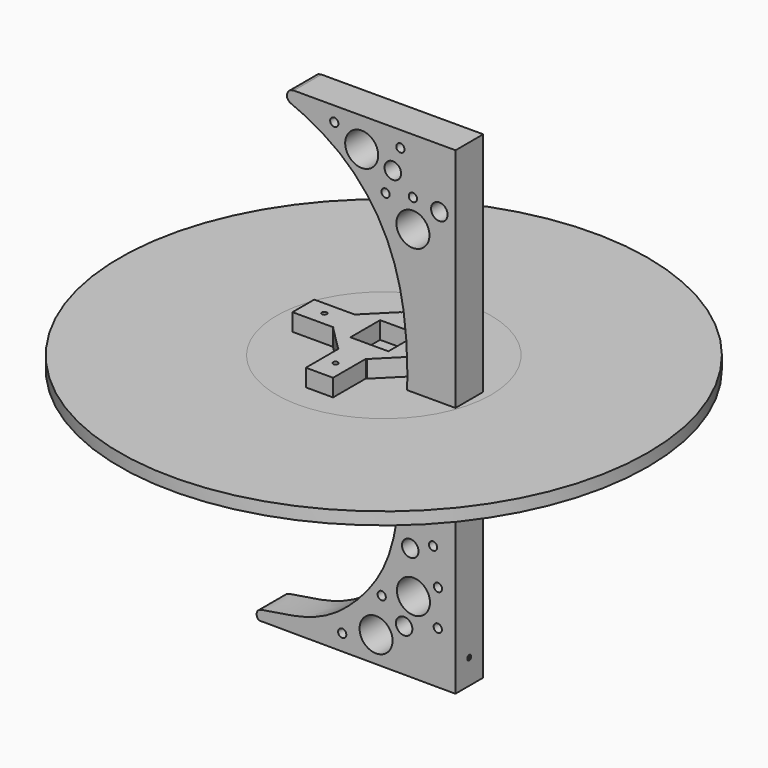
from build123d import *

# Parameters (mm, degrees)
F0_R     = 5.0006825341
F0_R_2   = 20.0027301364
F0_R_3   = 10.0013650682
F1_DEPTH = 42
F2_R     = 3
F2_W     = 46
F2_H     = 45
F3_DEPTH = 36
F4_R     = 130
F5_DEPTH = 15
F4_R_2   = 320
F6_DEPTH = 15
F7_R     = 3
F8_DEPTH = 2


with BuildPart() as f1:
    # F0 (on Front) → F1 (new body)
    with BuildSketch(Plane.XZ):
        with BuildLine():
            Line((120.3347502506, -289.9999587254), (120.5145007844, 290.000013421))
            Line((120.5145007844, 290.000013421), (-75.4854968761, 289.9697300736))
            add(Edge.make_bspline(
                [(-75.4854968761, 289.9697300736), (-77.4791444691, 289.6285774287), (-81.9431155451, 289.0648604222), (-85.097414924, 280.8178308538), (-80.5621815737, 275.249712008), (-73.0932655501, 273.4666354967), (-12.3448356318, 244.070394152), (45.5498113474, 169.4047663364), (64.3817232378, 70.2047966384), (61.0460791266, -22.6136318196), (52.5637214973, -119.7870268055), (36.1428084535, -194.0093221354), (-23.7241306275, -257.3487413797), (-75.9802644725, -271.8566558705), (-113.6560810378, -276.1760671207), (-117.8416120061, -277.8694125254), (-120.7833145434, -280.589599916), (-120.5024355824, -286.8724508682), (-118.5646862194, -288.3918386569), (-117.3594213633, -289.121622801)],
                knots=[0, 0, 0, 0, 0.0254903417, 0.0536597759, 0.0787693812, 0.1053591828, 0.1864897102, 0.2884201015, 0.3911718385, 0.4916756909, 0.5934521844, 0.6836318709, 0.7772549526, 0.85525249, 0.9159960843, 0.9361820461, 0.9554877968, 0.9800159909, 1, 1, 1, 1], degree=3))
            Line((-117.3594213633, -289.121622801), (120.3347502506, -289.9999587254))
        make_face()
        with Locations((-16.8456668925, -269.9498559673)):
            Circle(F0_R, mode=Mode.SUBTRACT)
        with Locations((24.2144403272, -258.2183967616)):
            Circle(F0_R_2, mode=Mode.SUBTRACT)
        with Locations((58.2143409121, -238.0047378359)):
            Circle(F0_R_3, mode=Mode.SUBTRACT)
        with Locations((31.0210563499, -214.3308896352)):
            Circle(F0_R, mode=Mode.SUBTRACT)
        with Locations((98.9876789912, -226.8776261166)):
            Circle(F0_R, mode=Mode.SUBTRACT)
        with Locations((69.523941539, -202.6966006922)):
            Circle(F0_R_2, mode=Mode.SUBTRACT)
        with Locations((65.6584849498, -152.5594255599)):
            Circle(F0_R_3, mode=Mode.SUBTRACT)
        with Locations((99.2199376917, -183.4333074802)):
            Circle(F0_R, mode=Mode.SUBTRACT)
        with Locations((93.2949590021, -141.1028858775)):
            Circle(F0_R, mode=Mode.SUBTRACT)
        with Locations((-26.4630925576, 272.17864117)):
            Circle(F0_R, mode=Mode.SUBTRACT)
        with Locations((35.6757196564, 216.7326844517)):
            Circle(F0_R, mode=Mode.SUBTRACT)
        with Locations((6.7689312212, 254.1003436959)):
            Circle(F0_R_2, mode=Mode.SUBTRACT)
        with Locations((44.5205288684, 243.627350256)):
            Circle(F0_R_3, mode=Mode.SUBTRACT)
        with Locations((53.6781767792, 270.7400558201)):
            Circle(F0_R, mode=Mode.SUBTRACT)
        with Locations((68.8698242597, 188.9232017858)):
            Circle(F0_R_2, mode=Mode.SUBTRACT)
        with Locations((68.8105741728, 222.9112527533)):
            Circle(F0_R, mode=Mode.SUBTRACT)
        with Locations((100.874192478, 218.0195900991)):
            Circle(F0_R_3, mode=Mode.SUBTRACT)
    extrude(amount=F1_DEPTH)

    # F7 (on face) → F8 (cut)
    with BuildSketch(Plane(origin=(120.4246139426, 0, -0.0373213615), x_dir=(0, 1, 0), z_dir=(0.999999952, 0, -0.0003099147))):
        with Locations((-21, -259.9626512889)):
            Circle(F7_R)
    extrude(amount=-F8_DEPTH, mode=Mode.SUBTRACT)


with BuildPart() as f3:
    # F2 (on Top) → F3 (new body)
    with BuildSketch(Plane.XY):
        Polygon((-16.5, -97.5), (16.5, -97.5), (16.5, -47.5), (17.5, -47.5), (47.5, -17.5), (47.5, -16.5), (97.5, -16.5), (97.5, 16.5), (47.5, 16.5), (47.5, 17.5), (17.5, 47.5), (16.5, 47.5), (16.5, 97.5), (-16.5, 97.5), (-16.5, 47.5), (-17.5, 47.5), (-47.5, 17.5), (-47.5, 16.5), (-97.5, 16.5), (-97.5, -16.5), (-47.5, -16.5), (-47.5, -17.5), (-17.5, -47.5), (-16.5, -47.5), align=None)
        with Locations((-0.5, -72.5)):
            Circle(F2_R, mode=Mode.SUBTRACT)
        with Locations((72.5, -0.5)):
            Circle(F2_R, mode=Mode.SUBTRACT)
        with Locations((-72.5, 0.5)):
            Circle(F2_R, mode=Mode.SUBTRACT)
        with Locations((0.5, 0)):
            Rectangle(F2_W, F2_H, mode=Mode.SUBTRACT)
        with Locations((0.5, 72.5)):
            Circle(F2_R, mode=Mode.SUBTRACT)
    extrude(amount=F3_DEPTH)


with BuildPart() as f5:
    # F4 (on Top) → F5 (new body)
    with BuildSketch(Plane.XY):
        Circle(F4_R)
    extrude(amount=F5_DEPTH)


with BuildPart() as f6:
    # F4 (on Top) → F6 (new body)
    with BuildSketch(Plane.XY):
        Circle(F4_R_2)
        Circle(F4_R, mode=Mode.SUBTRACT)
    extrude(amount=F6_DEPTH)


solid = Compound([f1.part, f3.part, f5.part, f6.part])
